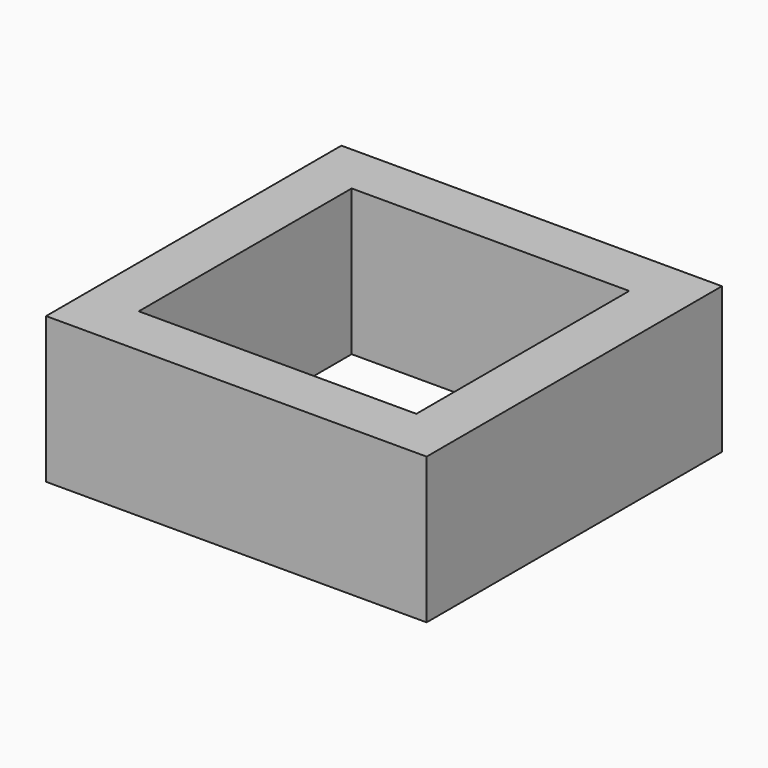
from build123d import *

# Parameters (mm, degrees)
BOX004_W     = 9.7
BOX004_H     = 9.3
BOX004_DEPTH = 5.1
BOX005_W     = 13.3
BOX005_H     = 12.9
BOX005_DEPTH = 5.1


with BuildPart() as cube004:
    # Box004 → Box004 (new body)
    with BuildSketch(Plane(origin=(1.8, 1.8, 0), x_dir=(1, 0, 0), z_dir=(0, 0, 1))):
        with Locations((4.85, 4.65)):
            Rectangle(BOX004_W, BOX004_H)
    extrude(amount=BOX004_DEPTH)


with BuildPart() as cut001:
    # Box005 → Box005 (new body)
    with BuildSketch(Plane.XY):
        with Locations((6.65, 6.45)):
            Rectangle(BOX005_W, BOX005_H)
    extrude(amount=BOX005_DEPTH)

    # Cut001: cut Cube004
    add(cube004.part, mode=Mode.SUBTRACT)


with BuildPart() as cut001_1:
    # Cut001 placement: moved
    add(cut001.part.moved(Location((18.75, 20, 0))))


solid = cut001_1.part
